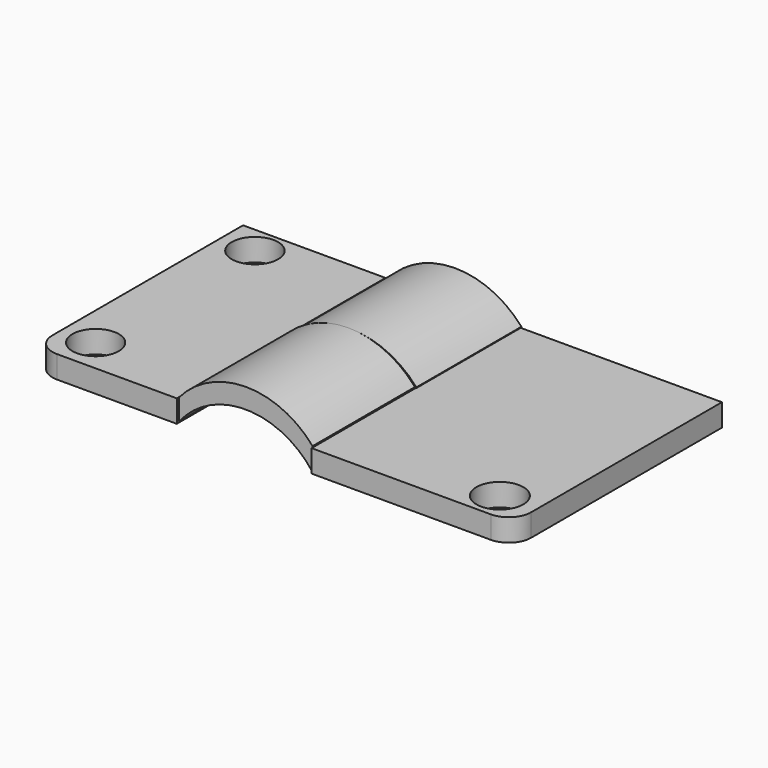
from build123d import *

# Parameters (mm, degrees)
F0_W     = 32.232192
F0_H     = 59.044812
F0_R     = 5.244087
F0_R_2   = 5.259579
F0_W_2   = 45.638502
F0_R_3   = 5.305781
F1_DEPTH = 5.08
F2_R     = 5.08
F4_DEPTH = 28.956
F6_DEPTH = 29.718


with BuildPart() as f1:
    # F0 (on Top) → F1 (new body)
    with BuildSketch(Plane.XY):
        with Locations((-38.079625, 0)):
            Rectangle(F0_W, F0_H)
        with Locations((-46.494223, -21.82091)):
            Circle(F0_R, mode=Mode.SUBTRACT)
        with Locations((-46.494223, 23.247113)):
            Circle(F0_R_2, mode=Mode.SUBTRACT)
        with Locations((31.37647, 0)):
            Rectangle(F0_W_2, F0_H)
        with Locations((45.923743, -22.961872)):
            Circle(F0_R_3, mode=Mode.SUBTRACT)
    extrude(amount=F1_DEPTH)

    # F2
    f2_edges = [f1.edges().sort_by_distance(p)[0] for p in [
        (-54.195721, -29.522406, 2.54),
        (54.195721, -29.522406, 2.54),
    ]]
    fillet(f2_edges, radius=F2_R)

    # F3 (on Front) → F4 (join)
    with BuildSketch(Plane.XZ):
        with BuildLine():
            ThreePointArc((-22.092413, 0), (-6.884253, 7.559739), (8.323907, 0))
            Line((8.323907, 0), (8.323907, 5.183358))
            ThreePointArc((8.323907, 5.183358), (-6.841151, 12.085168), (-21.932326, 5.023273))
            Line((-21.932326, 5.023273), (-22.092413, 0))
        make_face()
    extrude(amount=F4_DEPTH)


with BuildPart() as f6:
    # F5 (on Front) → F6 (new body)
    with BuildSketch(Plane.XZ):
        with BuildLine():
            Line((8.489107, 0), (8.658712, 5.234044))
            ThreePointArc((8.658712, 5.234044), (-6.61873, 12.023499), (-21.7006, 4.810032))
            Line((-21.7006, 4.810032), (-21.85004, 0.027953))
            ThreePointArc((-21.85004, 0.027953), (-6.673316, 7.775538), (8.489107, 0))
        make_face()
    extrude(amount=-F6_DEPTH)


solid = Compound([f1.part, f6.part])
